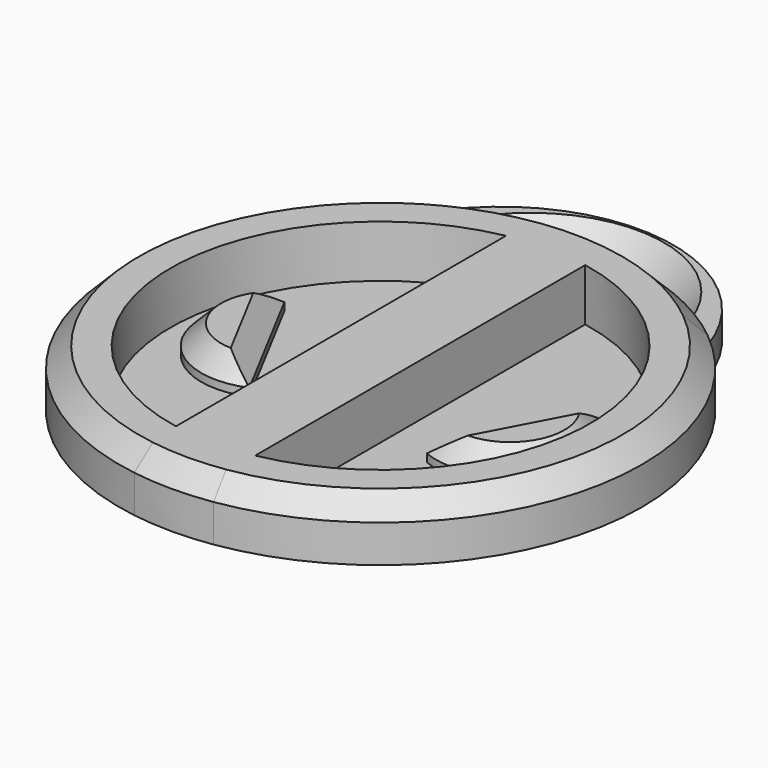
from build123d import *

# Parameters (mm, degrees)
F1_DEPTH  = 14.732
F2_DEPTH  = 1.27
F3_DEPTH  = 2.032
F4_DEPTH  = 1.016
F5_DEPTH  = 8.382
F6_SIZE   = 5.08
F6_2_SIZE = 5.08
F7_SIZE   = 5.08
F8_DEPTH  = 7.366
F9_SIZE   = 5.08


with BuildPart() as f1:
    # F0 (on Top) → F1 (new body)
    with BuildSketch(Plane.XY):
        with BuildLine():
            ThreePointArc((10.2107217535, -66.5535269893), (51.0937451166, -43.8527080509), (67.3322418566, 0))
            ThreePointArc((67.3322418566, 0), (60.7887815244, 28.9543577759), (42.4302094544, 52.2810493305))
            ThreePointArc((42.4302094544, 52.2810493305), (34.46970949, 57.840037354), (25.7924495128, 62.1963048868))
            ThreePointArc((25.7924495128, 62.1963048868), (0, 67.3322418566), (-25.7924495128, 62.1963048868))
            ThreePointArc((-25.7924495128, 62.1963048868), (-34.46970949, 57.840037354), (-42.4302094544, 52.2810493305))
            ThreePointArc((-42.4302094544, 52.2810493305), (-64.9860065082, -17.6195843185), (-10.2107217535, -66.5535269893))
            ThreePointArc((-10.2107217535, -66.5535269893), (0, -67.3322418566), (10.2107217535, -66.5535269893))
        make_face()
        with BuildLine():
            ThreePointArc((-10.2107217535, -53.1421852332), (-54.1142374065, 0), (-10.2107217535, 53.1421852332))
            Line((-10.2107217535, 53.1421852332), (-10.2107217535, -53.1421852332))
        make_face(mode=Mode.SUBTRACT)
        with BuildLine():
            ThreePointArc((10.2107217535, 53.1421852332), (54.1142374065, 0), (10.2107217535, -53.1421852332))
            Line((10.2107217535, -53.1421852332), (10.2107217535, 53.1421852332))
        make_face(mode=Mode.SUBTRACT)
    extrude(amount=F1_DEPTH)

    # F0 (on Top) → F2 (join)
    with BuildSketch(Plane.XY):
        with BuildLine():
            Line((-10.2107217535, -53.1421852332), (-10.2107217535, 53.1421852332))
            ThreePointArc((-10.2107217535, 53.1421852332), (-54.1142374065, 0), (-10.2107217535, -53.1421852332))
        make_face()
        with BuildLine():
            Line((-40.6804420054, 19.8660306633), (-22.8690840304, -13.6814415455))
            ThreePointArc((-22.8690840304, -13.6814415455), (-47.0691326412, -5.0279444465), (-40.6804420054, 19.8660306633))
        make_face(mode=Mode.SUBTRACT)
        with BuildLine():
            Line((10.2107217535, 53.1421852332), (10.2107217535, -53.1421852332))
            ThreePointArc((10.2107217535, -53.1421852332), (54.1142374065, 0), (10.2107217535, 53.1421852332))
        make_face()
        with BuildLine():
            ThreePointArc((40.6804420054, 19.8660306633), (47.0691326412, -5.0279444465), (22.8690840304, -13.6814415455))
            Line((22.8690840304, -13.6814415455), (40.6804420054, 19.8660306633))
        make_face(mode=Mode.SUBTRACT)
    extrude(amount=F2_DEPTH)

    # F7
    f7_edges = [f1.edges().sort_by_distance(p)[0] for p in [
        (10.210722, 66.553527, 14.732),
    ]]
    chamfer(f7_edges, length=F7_SIZE)

    # F0 (on Top) → F8 (join)
    with BuildSketch(Plane.XY):
        with BuildLine():
            ThreePointArc((25.7924495128, 62.1963048868), (34.46970949, 57.840037354), (42.4302094544, 52.2810493305))
            ThreePointArc((42.4302094544, 52.2810493305), (0, 83.1852659045), (-42.4302094544, 52.2810493305))
            ThreePointArc((-42.4302094544, 52.2810493305), (-34.46970949, 57.840037354), (-25.7924495128, 62.1963048868))
            ThreePointArc((-25.7924495128, 62.1963048868), (0, 77.5467522408), (25.7924495128, 62.1963048868))
        make_face()
    extrude(amount=F8_DEPTH)

    # F9
    f9_edges = [f1.edges().sort_by_distance(p)[0] for p in [
        (0, 77.546752, 7.366),
    ]]
    chamfer(f9_edges, length=F9_SIZE)


with BuildPart() as f3:
    # F0 (on Top) → F3 (new body)
    with BuildSketch(Plane.XY):
        with BuildLine():
            ThreePointArc((-40.6804420054, 19.8660306633), (-47.0691326412, -5.0279444465), (-22.8690840304, -13.6814415455))
            Line((-22.8690840304, -13.6814415455), (-40.6804420054, 19.8660306633))
        make_face()
    extrude(amount=-F3_DEPTH)


with BuildPart() as f3b:
    # F0 (on Top) → F3, piece 2 (new body)
    with BuildSketch(Plane.XY):
        with BuildLine():
            Line((40.6804420054, 19.8660306633), (22.8690840304, -13.6814415455))
            ThreePointArc((22.8690840304, -13.6814415455), (47.0691326412, -5.0279444465), (40.6804420054, 19.8660306633))
        make_face()
    extrude(amount=-F3_DEPTH)


with BuildPart() as f4:
    # F0 (on Top) → F4 (new body)
    with BuildSketch(Plane.XY):
        with BuildLine():
            ThreePointArc((-40.6804420054, 19.8660306633), (-47.0691326412, -5.0279444465), (-22.8690840304, -13.6814415455))
            Line((-22.8690840304, -13.6814415455), (-40.6804420054, 19.8660306633))
        make_face()
    extrude(amount=-F4_DEPTH)


with BuildPart() as f4b:
    # F0 (on Top) → F4, piece 2 (new body)
    with BuildSketch(Plane.XY):
        with BuildLine():
            Line((40.6804420054, 19.8660306633), (22.8690840304, -13.6814415455))
            ThreePointArc((22.8690840304, -13.6814415455), (47.0691326412, -5.0279444465), (40.6804420054, 19.8660306633))
        make_face()
    extrude(amount=-F4_DEPTH)


with BuildPart() as f5:
    # F0 (on Top) → F5 (new body)
    with BuildSketch(Plane.XY):
        with BuildLine():
            Line((40.6804420054, 19.8660306633), (22.8690840304, -13.6814415455))
            ThreePointArc((22.8690840304, -13.6814415455), (47.0691326412, -5.0279444465), (40.6804420054, 19.8660306633))
        make_face()
    extrude(amount=F5_DEPTH)

    # F6#2
    f6_2_edges = [f5.edges().sort_by_distance(p)[0] for p in [
        (47.069133, -5.027944, 8.382),
        (31.774763, 3.092295, 8.382),
    ]]
    chamfer(f6_2_edges, length=F6_2_SIZE)


with BuildPart() as f5b:
    # F0 (on Top) → F5, piece 2 (new body)
    with BuildSketch(Plane.XY):
        with BuildLine():
            ThreePointArc((-40.6804420054, 19.8660306633), (-47.0691326412, -5.0279444465), (-22.8690840304, -13.6814415455))
            Line((-22.8690840304, -13.6814415455), (-40.6804420054, 19.8660306633))
        make_face()
    extrude(amount=F5_DEPTH)

    # F6
    f6_edges = [f5b.edges().sort_by_distance(p)[0] for p in [
        (-31.774763, 3.092295, 8.382),
        (-47.069133, -5.027944, 8.382),
    ]]
    chamfer(f6_edges, length=F6_SIZE)


solid = Compound([f1.part, f3.part, f3b.part, f4.part, f4b.part, f5.part, f5b.part])
